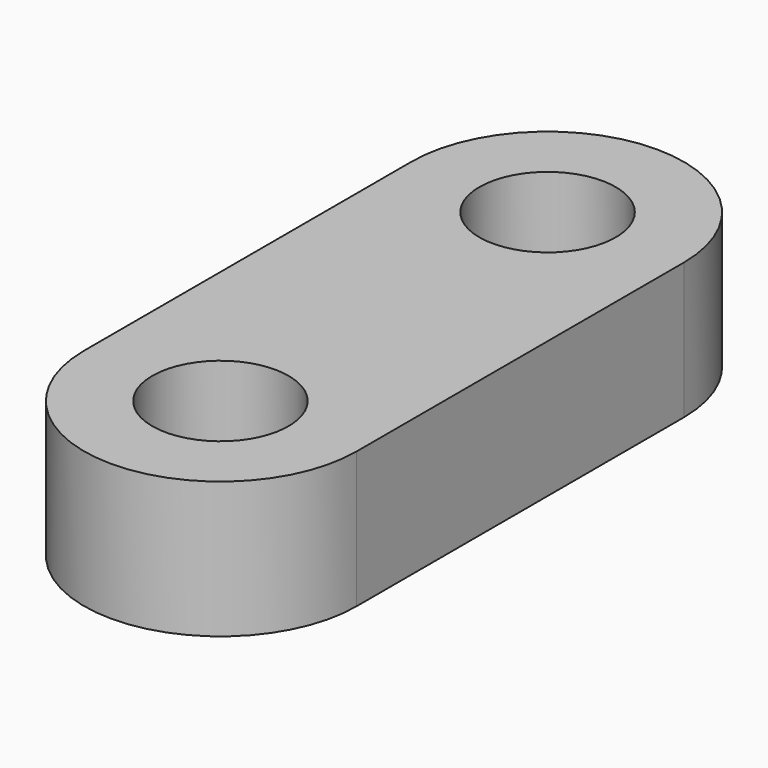
from build123d import *

# Parameters (mm, degrees)
F1_DEPTH = 10
F3_D     = 10


with BuildPart() as f1:
    # F0 (on Top) → F1 (new body)
    with BuildSketch(Plane.XY):
        with BuildLine():
            Line((10, -30), (10, 0))
            ThreePointArc((10, 0), (0, 10), (-10, 0))
            Line((-10, 0), (-10, -30))
            ThreePointArc((-10, -30), (0, -40), (10, -30))
        make_face()
    extrude(amount=F1_DEPTH)

    # F3 (through all)
    with Locations(Plane.XY.offset(10)):
        with Locations((0, 0), (0, -30)):
            Hole(F3_D / 2)


solid = f1.part
